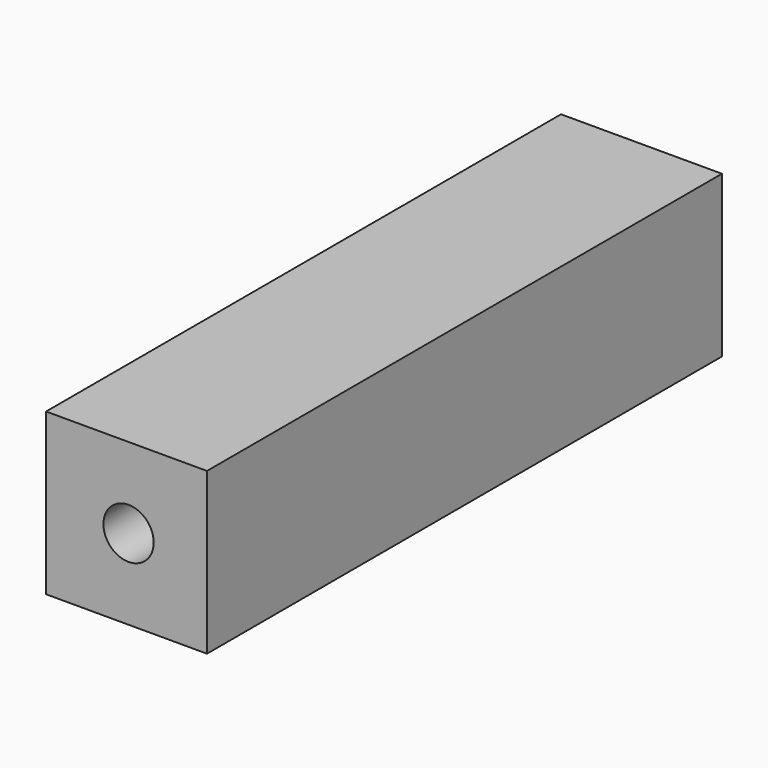
from build123d import *

# Parameters (mm, degrees)
F0_W     = 101.6
F0_H     = 25.4
F1_DEPTH = 25.4
F2_R     = 3.96875
F3_DEPTH = 19.05
F4_R     = 3.96875
F5_DEPTH = 19.05


with BuildPart() as f1:
    # F0 (on Right) → F1 (new body)
    with BuildSketch(Plane.YZ):
        with Locations((50.8, 12.7)):
            Rectangle(F0_W, F0_H)
    extrude(amount=F1_DEPTH)

    # F2 (on face) → F3 (cut)
    with BuildSketch(Plane(origin=(0, 101.6, 0), x_dir=(-1, 0, 0), z_dir=(0, 1, 0))):
        with Locations((-12.7, 12.7)):
            Circle(F2_R)
    extrude(amount=-F3_DEPTH, mode=Mode.SUBTRACT)

    # F4 (on face) → F5 (cut)
    with BuildSketch(Plane.XZ):
        with Locations((13.019745, 12.7)):
            Circle(F4_R)
    extrude(amount=-F5_DEPTH, mode=Mode.SUBTRACT)


solid = f1.part
